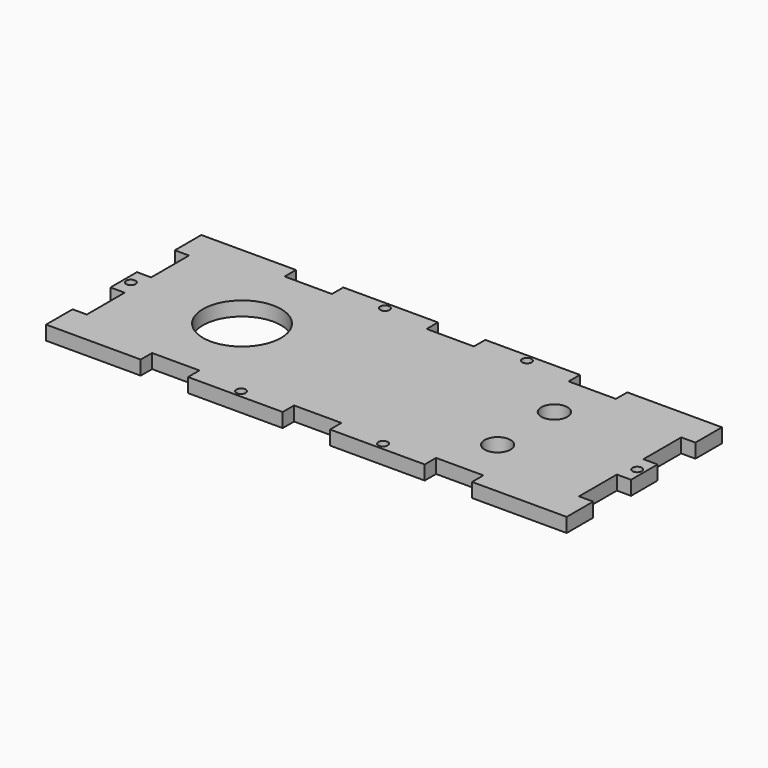
from build123d import *

# Parameters (mm, degrees)
F0_R     = 1
F0_R_2   = 2.75
F0_R_3   = 8.25
F1_DEPTH = 3


with BuildPart() as f1:
    # F0 (on Top) → F1 (new body)
    with BuildSketch(Plane.XY):
        Polygon((0, 7), (0, 0), (20, 0), (20, 3), (30, 3), (30, 0), (50, 0), (50, 3), (55, 3), (60, 3), (60, 0), (80, 0), (80, 3), (90, 3), (90, 0), (110, 0), (110, 7), (107, 7), (107, 17), (110, 17), (110, 24), (107, 24), (107, 34), (110, 34), (110, 41), (90, 41), (90, 38), (80, 38), (80, 41), (60, 41), (60, 38), (55, 38), (50, 38), (50, 41), (30, 41), (30, 38), (20, 38), (20, 41), (0, 41), (0, 34), (3, 34), (3, 24), (0, 24), (0, 17), (3, 17), (3, 7), align=None)
        with Locations((40, 1.5)):
            Circle(F0_R, mode=Mode.SUBTRACT)
        with Locations((70, 1.5)):
            Circle(F0_R, mode=Mode.SUBTRACT)
        with Locations((85, 13)):
            Circle(F0_R_2, mode=Mode.SUBTRACT)
        with Locations((1.5, 20.5)):
            Circle(F0_R, mode=Mode.SUBTRACT)
        with Locations((25, 20.5)):
            Circle(F0_R_3, mode=Mode.SUBTRACT)
        with Locations((40, 39.5)):
            Circle(F0_R, mode=Mode.SUBTRACT)
        with Locations((108.5, 20.5)):
            Circle(F0_R, mode=Mode.SUBTRACT)
        with Locations((85, 28)):
            Circle(F0_R_2, mode=Mode.SUBTRACT)
        with Locations((70, 39.5)):
            Circle(F0_R, mode=Mode.SUBTRACT)
    extrude(amount=F1_DEPTH)


solid = f1.part
